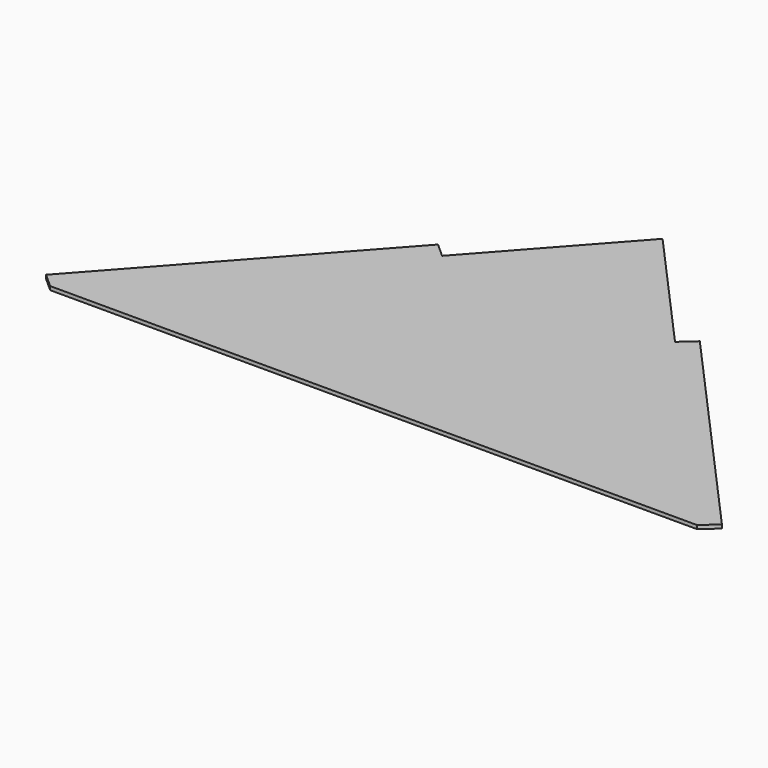
from build123d import *

# Parameters (mm, degrees)
F1_DEPTH = 4.7752
F2_W     = 406.4
F2_H     = 4.7752
F3_DEPTH = 25.4
F4_W     = 406.4
F4_H     = 4.7752
F5_DEPTH = 25.4


with BuildPart() as f1:
    # F0 (on Top) → F1 (new body)
    with BuildSketch(Plane.XY):
        Polygon((423.6610569844, -250.6542817955), (0, 222.3534441402), (-423.6610569844, -250.6542817955), align=None)
    extrude(amount=F1_DEPTH)

    # F2 (on face) → F3 (join)
    with BuildSketch(Plane(origin=(110.5053208931, 98.9768210644, 0), x_dir=(-0.6671827669, 0.7448940566, 0), z_dir=(0.7448940566, 0.6671827669, 0))):
        with Locations((-266.1702409973, 2.3876)):
            Rectangle(F2_W, F2_H)
    extrude(amount=F3_DEPTH)

    # F4 (on face) → F5 (join)
    with BuildSketch(Plane(origin=(-110.5053208931, 98.9768210644, 0), x_dir=(-0.6671827669, -0.7448940566, 0), z_dir=(-0.7448940566, 0.6671827669, 0))):
        with Locations((266.1702409973, 2.3876)):
            Rectangle(F4_W, F4_H)
    extrude(amount=F5_DEPTH)


solid = f1.part
